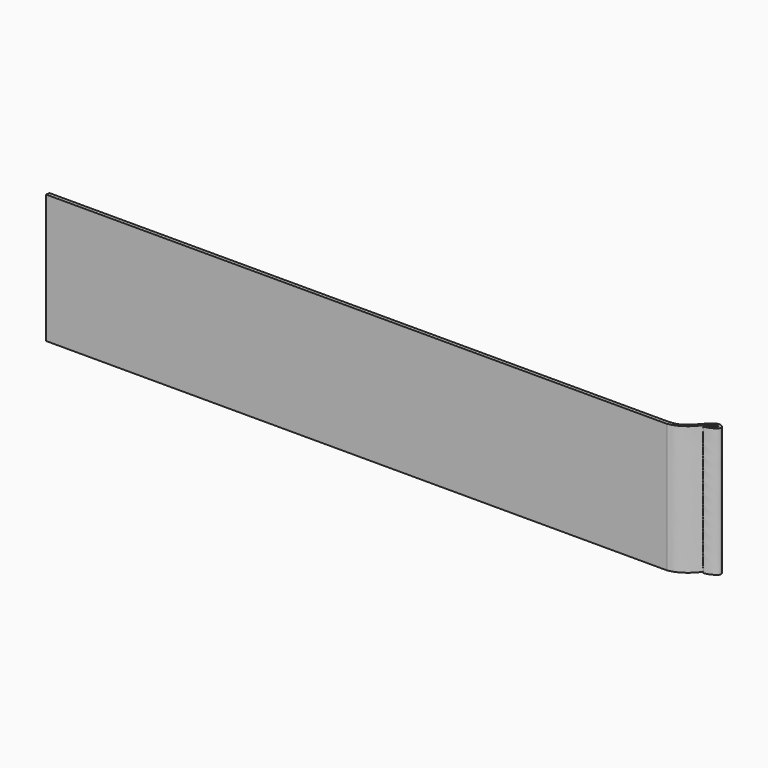
from build123d import *

# Parameters (mm, degrees)
F1_DEPTH = 18


with BuildPart() as f1:
    # F0 (on Top) → F1 (new body)
    with BuildSketch(Plane.XY):
        with BuildLine():
            add(Edge.make_bspline(
                [(33.2083649701, 35.555926076), (33.6812209021, 35.638331411), (34.5240650139, 35.6549880246), (36.0443522498, 37.0331534098), (37.2248818912, 38.6184995546), (38.2916479554, 38.5692934981), (38.790469736, 37.6686184984), (36.8958615068, 36.9018328077), (36.4982833528, 37.2331308899), (38.4546738236, 37.6748781935), (37.5936315644, 38.725874376), (35.8700827545, 35.9415189761), (33.8087028329, 35.1401402252), (34.0776687473, 35.2535625412), (33.3111360387, 35.055926076)],
                knots=[0, 0, 0, 0, 0.0852312263, 0.1917866213, 0.2969272476, 0.3664380488, 0.4262998236, 0.5270229235, 0.5570803334, 0.6504934594, 0.7010459495, 0.8311258946, 0.9323305681, 1, 1, 1, 1], degree=3))
            Line((33.2083649701, 35.555926076), (-53.2485608071, 35.555926076))
            Line((-53.2485608071, 35.555926076), (-53.3294964642, 35.055926076))
            Line((-53.3294964642, 35.055926076), (33.3111360387, 35.055926076))
        make_face()
    extrude(amount=F1_DEPTH)


solid = f1.part
